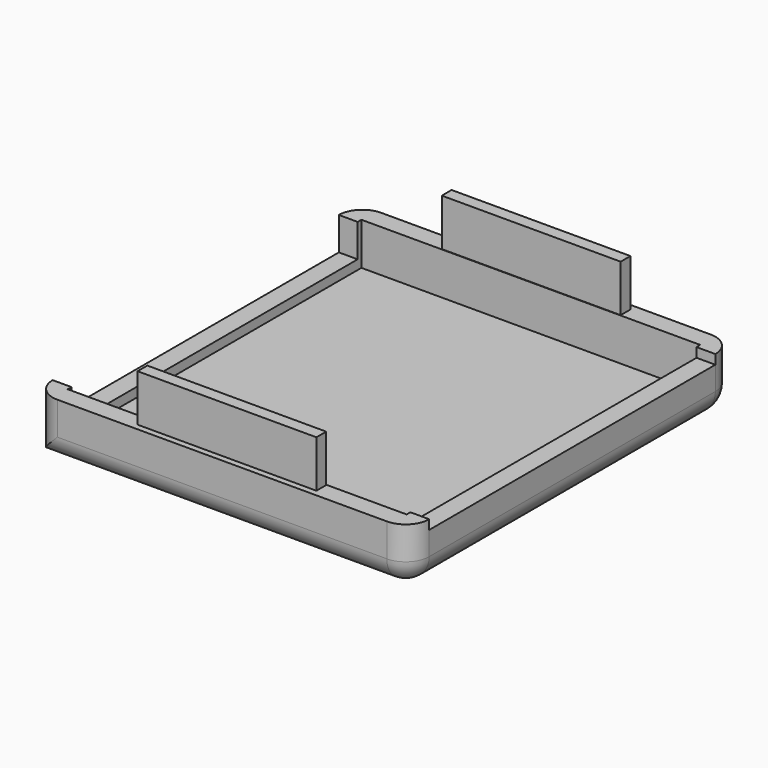
from build123d import *

# Parameters (mm, degrees)
F0_W     = 40
F0_H     = 43
F0_W_2   = 36
F0_H_2   = 39
F1_DEPTH = 1.5
F2_DEPTH = 6
F3_W     = 2
F3_H     = 38
F4_DEPTH = 3.5
F5_R     = 2.5
F6_W     = 19
F6_H     = 1.3
F7_DEPTH = 5
F8_DEPTH = 1


with BuildPart() as f1:
    # F0 (on Top) → F1 (new body)
    with BuildSketch(Plane.XY):
        Rectangle(F0_W, F0_H)
        Rectangle(F0_W_2, F0_H_2, mode=Mode.SUBTRACT)
        Rectangle(F0_W_2, F0_H_2)
    extrude(amount=F1_DEPTH)

    # F0 (on Top) → F2 (join)
    with BuildSketch(Plane.XY):
        Rectangle(F0_W, F0_H)
        Rectangle(F0_W_2, F0_H_2, mode=Mode.SUBTRACT)
    extrude(amount=F2_DEPTH)

    # F3 (on face) → F4 (cut)
    with BuildSketch(Plane.XY.offset(6)):
        with Locations((-19, 0)):
            Rectangle(F3_W, F3_H)
    extrude(amount=-F4_DEPTH, mode=Mode.SUBTRACT)

    # F5
    f5_edges = [f1.edges().sort_by_distance(p)[0] for p in [
        (-20, -21.5, 3),
        (20, -21.5, 3),
        (20, 21.5, 3),
        (-20, 21.5, 3),
        (0, -21.5, 0),
        (20, 0, 0),
        (0, 21.5, 0),
    ]]
    fillet(f5_edges, radius=F5_R)

    # F6 (on face) → F7 (join)
    with BuildSketch(Plane.XY.offset(6)):
        with Locations((0, 20.2)):
            Rectangle(F6_W, F6_H)
        with Locations((0, -20.2)):
            Rectangle(F6_W, F6_H)
    extrude(amount=F7_DEPTH)

    # F3 (on face) → F8 (cut)
    with BuildSketch(Plane.XY.offset(6)):
        with Locations((19, 0)):
            Rectangle(F3_W, F3_H)
    extrude(amount=-F8_DEPTH, mode=Mode.SUBTRACT)


solid = f1.part
